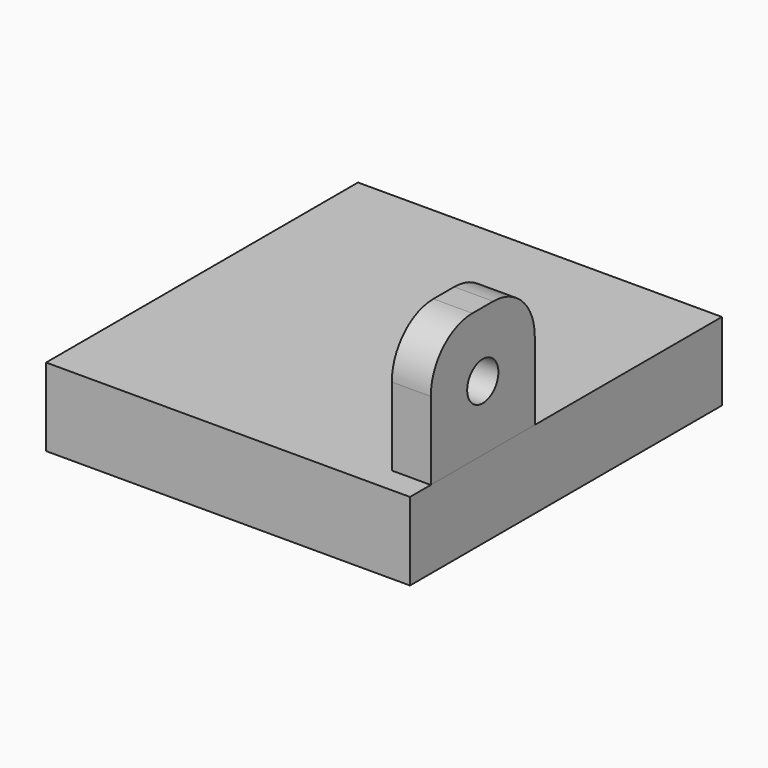
from build123d import *

# Parameters (mm, degrees)
F0_W     = 28
F0_H     = 30
F1_DEPTH = 6
F2_R     = 1.5
F3_DEPTH = 3


with BuildPart() as f1:
    # F0 (on Top) → F1 (new body)
    with BuildSketch(Plane.XY):
        with Locations((14, 15)):
            Rectangle(F0_W, F0_H)
    extrude(amount=F1_DEPTH)


with BuildPart() as f3:
    # F2 (on face) → F3 (new body)
    with BuildSketch(Plane.YZ.offset(28)):
        with BuildLine():
            Line((2, 12), (2, 6))
            Line((2, 6), (12, 6))
            Line((12, 6), (12, 12))
            ThreePointArc((12, 12), (10.828427, 14.828427), (8, 16))
            Line((8, 16), (6, 16))
            ThreePointArc((6, 16), (3.171573, 14.828427), (2, 12))
        make_face()
        with Locations((7, 11)):
            Circle(F2_R, mode=Mode.SUBTRACT)
    extrude(amount=-F3_DEPTH)


solid = Compound([f1.part, f3.part])
